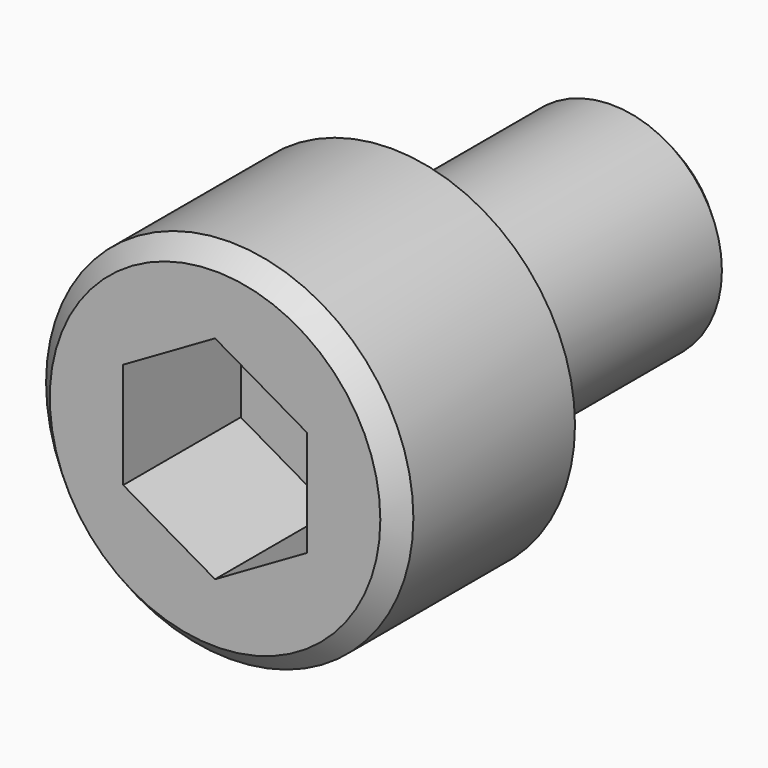
from build123d import *

# Parameters (mm, degrees)
F0_R     = 5
F0_R_2   = 3
F1_DEPTH = 6
F2_DEPTH = 8
F3_SIZE  = 0.5
F5_DEPTH = 4


with BuildPart() as f1:
    # F0 (on Front) → F1 (new body)
    with BuildSketch(Plane.XZ):
        Circle(F0_R)
        Circle(F0_R_2, mode=Mode.SUBTRACT)
        Circle(F0_R_2)
    extrude(amount=F1_DEPTH)

    # F0 (on Front) → F2 (join)
    with BuildSketch(Plane.XZ):
        Circle(F0_R_2)
    extrude(amount=-F2_DEPTH)

    # F3
    f3_edges = [f1.edges().sort_by_distance(p)[0] for p in [
        (-5, -6, 0),
        (-3, 8, 0),
    ]]
    chamfer(f3_edges, length=F3_SIZE)

    # F4 (on face) → F5 (cut)
    with BuildSketch(Plane.XZ.offset(6)):
        Polygon((2.5, -1.443376), (2.5, 1.443376), (0, 2.886751), (-2.5, 1.443376), (-2.5, -1.443376), (0, -2.886751), align=None)
    extrude(amount=-F5_DEPTH, mode=Mode.SUBTRACT)


solid = f1.part
